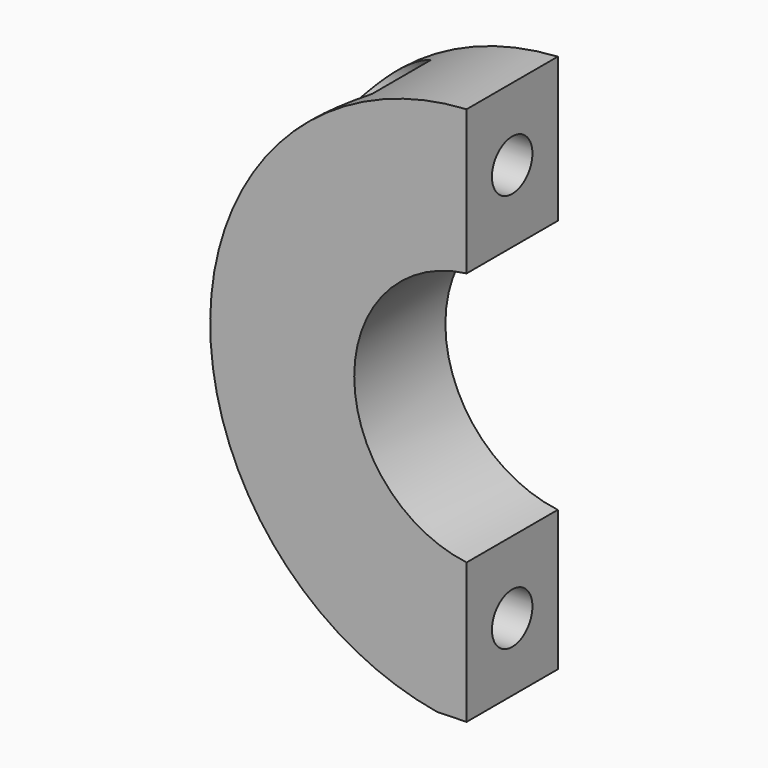
from build123d import *

# Parameters (mm, degrees)
PAD114_DEPTH    = 3.6
SKETCH245_W     = 199.954956
SKETCH245_H     = 336.690071
POCKET129_DEPTH = 50
POCKET130_DEPTH = 300
SKETCH247_R     = 4.05
POCKET131_DEPTH = 5
SKETCH248_R     = 0.8
POCKET132_DEPTH = 10
SKETCH249_R     = 1.75
POCKET133_DEPTH = 4.5


with BuildPart() as part:
    # Sketch244 → Pad114 (new body)
    with BuildSketch(Plane.XZ):
        with BuildLine():
            add(Edge.make_bspline(
                [(299.999063, 0.026825), (299.662766, 0.037193), (298.339429, 0.190401), (295.439956, 0.589669), (290.775356, 1.337839), (284.500044, 2.393262), (276.735212, 3.66473), (267.577355, 5.083019), (257.136483, 6.653879), (245.549215, 8.381993), (232.975291, 10.222771), (219.590016, 12.153256), (205.573823, 14.115503), (191.111579, 16.055183), (176.381713, 17.897983), (161.544489, 19.553409), (146.739309, 20.940939), (132.087536, 21.99009), (117.705275, 22.664279), (103.703346, 22.961168), (90.192549, 22.858072), (77.284675, 22.375726), (65.094168, 21.544938), (53.730431, 20.369385), (43.29002, 18.857963), (33.852484, 17.043697), (25.485501, 14.967735), (18.252292, 12.67281), (12.179436, 10.224412), (7.338355, 7.689021), (3.623023, 5.152403), (1.3546, 2.748114), (-0.314638, 0.590402), (0.575789, -1.804065), (3.482069, -2.72942), (7.386052, -3.91761), (13.030922, -4.754284), (20.096342, -5.463024), (28.645402, -5.933379), (38.56853, -6.201185), (49.790194, -6.284208), (62.196701, -6.193111), (75.660953, -5.967607), (90.034637, -5.629522), (105.153445, -5.226063), (120.83724, -4.775199), (136.895942, -4.296045), (153.13493, -3.818601), (169.356828, -3.345106), (185.36574, -2.889379), (200.968742, -2.465331), (215.974941, -2.074889), (230.201502, -1.715375), (243.47905, -1.394255), (255.639348, -1.103787), (266.55871, -0.849968), (276.034544, -0.603524), (284.209012, -0.340437), (290.324953, -0.117215), (295.955653, 0.018504), (297.364702, 0.013759), (300.343856, 0.01512), (300.000055, 0.026794), (299.999063, 0.026825)],
                knots=[0, 0, 0, 0, 1.017748, 3.99659, 8.779341, 15.189917, 23.087031, 32.383824, 42.990765, 54.76218, 67.530065, 81.114584, 95.333435, 109.988542, 124.889458, 139.866624, 154.774633, 169.496697, 183.930349, 197.964304, 211.506735, 224.45797, 236.709214, 248.156653, 258.723012, 268.346769, 276.97692, 284.567784, 291.102108, 296.573756, 300.992679, 304.39163, 306.761357, 308.43213, 311.131254, 315.298227, 320.951765, 328.080828, 336.654655, 346.609821, 357.866231, 370.316475, 383.83025, 398.264023, 413.449345, 429.202773, 445.334827, 461.646891, 477.940787, 494.021253, 509.693044, 524.767168, 539.054704, 552.387642, 564.607107, 575.560217, 585.109622, 593.180747, 599.700326, 604.53767, 607.540683, 608.560842, 608.563842, 608.563842, 608.563842, 608.563842], degree=3))
        make_face()
    extrude(amount=PAD114_DEPTH)

    # Sketch245 → Pocket129 (cut, symmetric)
    with BuildSketch(Plane.XY):
        with Locations((301.477478, -150.975887)):
            Rectangle(SKETCH245_W, SKETCH245_H)
    extrude(amount=POCKET129_DEPTH, both=True, mode=Mode.SUBTRACT)

    # Sketch246 (on Face4 of Pocket129) → Pocket130 (cut)
    with BuildSketch(Plane.XZ.offset(3.6)):
        with BuildLine():
            ThreePointArc((202, 14.6), (193.4, 6), (202, -2.6))
            Line((213.747525, -30.946017), (202, -2.6))
            Line((-22.89874, -30.946017), (213.747525, -30.946017))
            Line((-27.727513, 31.780215), (-22.89874, -30.946017))
            Line((188.968875, 46.453211), (-27.727513, 31.780215))
            Line((202, 14.6), (188.968875, 46.453211))
        make_face()
    extrude(amount=-POCKET130_DEPTH, mode=Mode.SUBTRACT)

    # Sketch247 (on Face4 of Pocket130) → Pocket131 (cut)
    with BuildSketch(Plane.XZ.offset(3.6)):
        with Locations((202, 6)):
            Circle(SKETCH247_R)
    extrude(amount=-POCKET131_DEPTH, mode=Mode.SUBTRACT)

    # Sketch248 (on Face7 of Pocket131) → Pocket132 (cut)
    with BuildSketch(Plane(origin=(201.5, 0, 0), x_dir=(0, 0, 1), z_dir=(1, 0, 0))):
        with Locations((12.3, 1.8)):
            Circle(SKETCH248_R)
        with Locations((-0.3, 1.8)):
            Circle(SKETCH248_R)
    extrude(amount=-POCKET132_DEPTH, mode=Mode.SUBTRACT)

    # Sketch249 (on DatumPlane) → Pocket133 (cut)
    with BuildSketch(Plane(origin=(193.5, 0, 0), x_dir=(0, 0, 1), z_dir=(1, 0, 0))):
        with Locations((12.3, 1.8)):
            Circle(SKETCH249_R)
        with Locations((-0.3, 1.8)):
            Circle(SKETCH249_R)
    extrude(amount=POCKET133_DEPTH, mode=Mode.SUBTRACT)


with BuildPart() as part_1:
    # Body047 placement: moved
    add(part.part.moved(Location((0, -609, 0))))


solid = part_1.part
